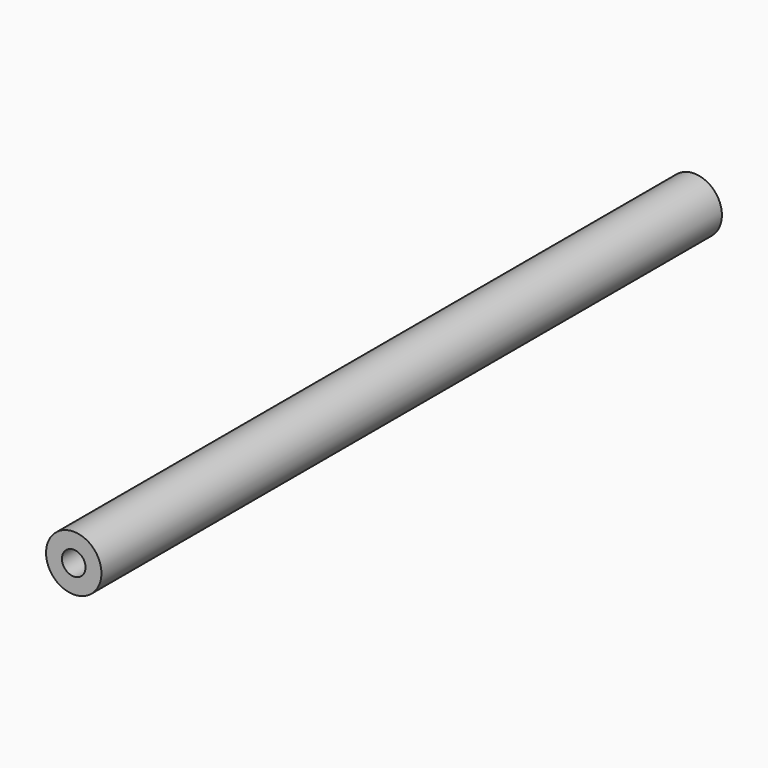
from build123d import *

# Parameters (mm, degrees)
F0_R           = 3.175
F1_DEPTH       = 88.9
F4_D           = 2.7051
F4_DEPTH       = 15.08125
F4_TIP         = 0.8126940303
F4_ON_F2_D     = 2.7051
F4_ON_F2_DEPTH = 15.08125
F4_ON_F2_TIP   = 0.8126940303


with BuildPart() as f1:
    # F0 (on Front) → F1 (new body)
    with BuildSketch(Plane.XZ):
        Circle(F0_R)
    extrude(amount=F1_DEPTH)

    # F4
    with Locations(Plane(origin=(0, 0, 0), x_dir=(-1, 0, 0), z_dir=(0, 1, 0))):
        with Locations((0, 0)):
            Hole(F4_D / 2, depth=F4_DEPTH)
            with Locations((0, 0, -(F4_DEPTH + F4_TIP / 2))):  # 118° drill point
                Cone(0, F4_D / 2, F4_TIP, mode=Mode.SUBTRACT)

    # F4 on F2
    with Locations(Plane.XZ.offset(88.9)):
        with Locations((0, 0)):
            Hole(F4_ON_F2_D / 2, depth=F4_ON_F2_DEPTH)
            with Locations((0, 0, -(F4_ON_F2_DEPTH + F4_ON_F2_TIP / 2))):  # 118° drill point
                Cone(0, F4_ON_F2_D / 2, F4_ON_F2_TIP, mode=Mode.SUBTRACT)


solid = f1.part
